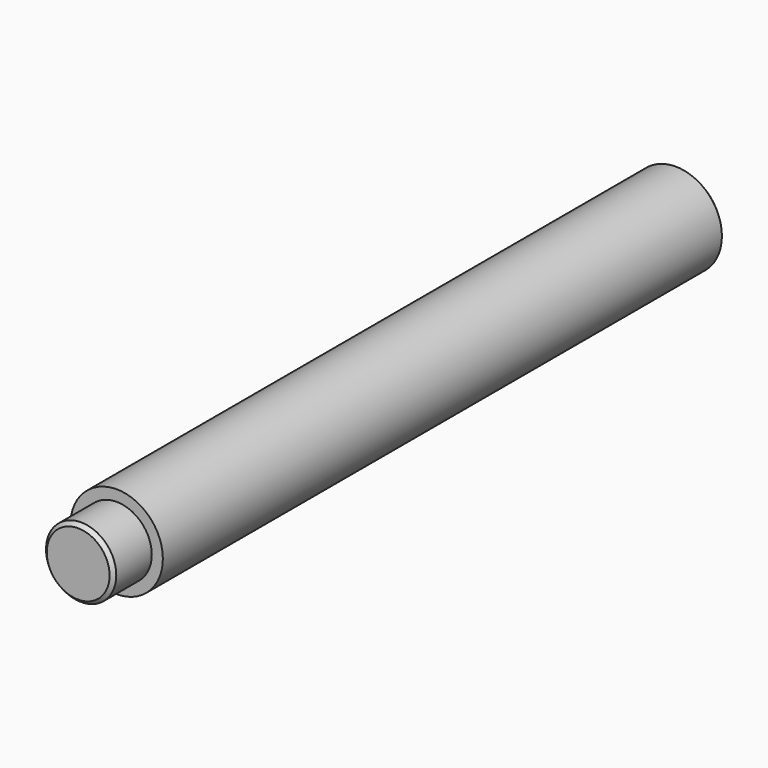
from build123d import *

# Parameters (mm, degrees)
F0_R     = 6.25
F1_DEPTH = 47.5
F2_R     = 4.75
F3_DEPTH = 6.5
F4_SIZE  = 0.5


with BuildPart() as f1:
    # F0 (on Front) → F1 (new body, symmetric)
    with BuildSketch(Plane.XZ):
        Circle(F0_R)
    extrude(amount=F1_DEPTH, both=True)

    # F2 (on face) → F3 (join)
    with BuildSketch(Plane.XZ.offset(47.5)):
        Circle(F2_R)
    extrude(amount=F3_DEPTH)

    # F4
    f4_edges = [f1.edges().sort_by_distance(p)[0] for p in [
        (-4.75, -54, 0),
        (-6.25, 47.5, 0),
    ]]
    chamfer(f4_edges, length=F4_SIZE)


solid = f1.part
